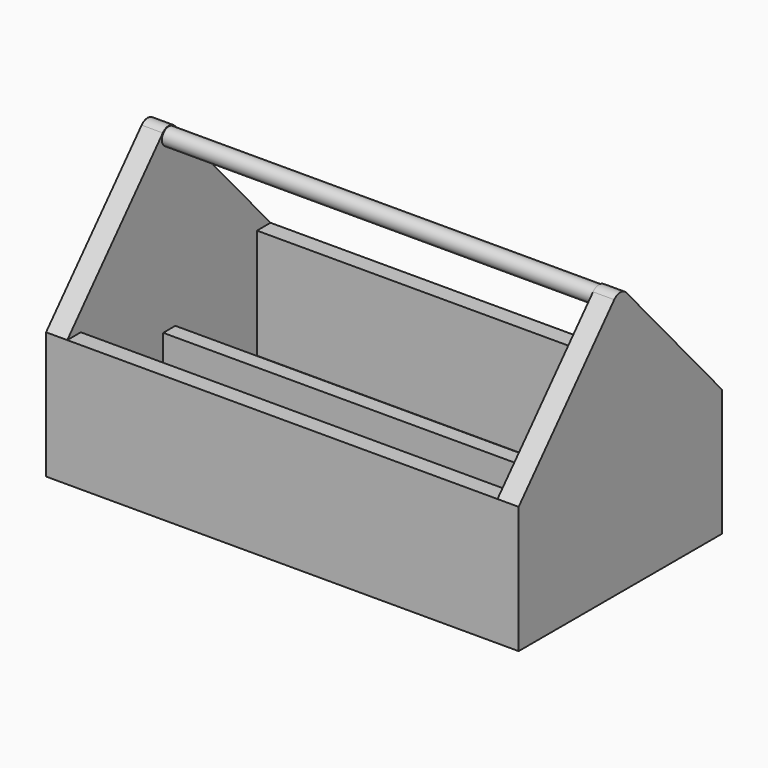
from build123d import *

# Parameters (mm, degrees)
F1_DEPTH = 25
F3_DEPTH = 508
F5_DEPTH = 25
F6_R     = 10
F7_DEPTH = 508
F8_W     = 508
F8_H     = 17.884616
F9_DEPTH = 80


with BuildPart() as f1:
    # F0 (on Right) → F1 (new body)
    with BuildSketch(Plane.YZ):
        with BuildLine():
            Line((-97.451926, 123.666471), (-97.451926, -26.333529))
            Line((-97.451926, -26.333529), (202.548074, -26.333529))
            Line((202.548074, -26.333529), (202.548074, 123.666471))
            Line((202.548074, 123.666471), (61.499769, 281.658165))
            ThreePointArc((61.499769, 281.658165), (52.548074, 285.666471), (43.59638, 281.658165))
            Line((43.59638, 281.658165), (-97.451926, 123.666471))
        make_face()
    extrude(amount=F1_DEPTH)

    # F2 (on face) → F3 (join)
    with BuildSketch(Plane(origin=(0, 0, 0), x_dir=(0, -1, 0), z_dir=(-1, 0, 0))):
        Polygon((-182.548074, 123.666471), (-202.548074, 123.666471), (-202.548074, -26.333529), (97.451926, -26.333529), (97.451926, 123.666471), (77.451926, 123.666471), (77.451926, -6.333529), (-182.548074, -6.333529), align=None)
    extrude(amount=F3_DEPTH)

    # F4 (on face) → F5 (join)
    with BuildSketch(Plane(origin=(-508, 0, 0), x_dir=(0, -1, 0), z_dir=(-1, 0, 0))):
        with BuildLine():
            Line((97.451926, 123.666471), (-43.59638, 281.658165))
            ThreePointArc((-43.59638, 281.658165), (-52.548074, 285.666471), (-61.499769, 281.658165))
            Line((-61.499769, 281.658165), (-202.548074, 123.666471))
            Line((-202.548074, 123.666471), (-202.548074, -26.333529))
            Line((-202.548074, -26.333529), (97.451926, -26.333529))
            Line((97.451926, -26.333529), (97.451926, 123.666471))
        make_face()
    extrude(amount=F5_DEPTH)

    # F6 (on face) → F7 (join)
    with BuildSketch(Plane.YZ):
        with Locations((52.24314, 274.906725)):
            Circle(F6_R)
    extrude(amount=-F7_DEPTH)

    # F8 (on face) → F9 (join)
    with BuildSketch(Plane.XY.offset(-6.333529)):
        with Locations((-254, 53.124996)):
            Rectangle(F8_W, F8_H)
    extrude(amount=F9_DEPTH)


solid = f1.part
